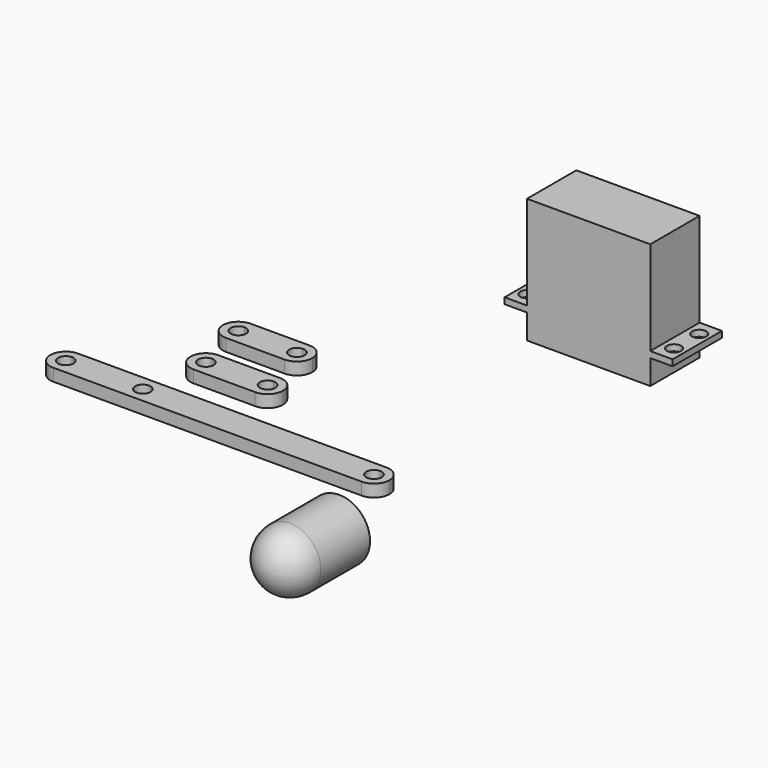
from build123d import *

# Parameters (mm, degrees)
F0_R      = 10
F1_DEPTH  = 30
F2_R      = 10
F4_D      = 6
F4_DEPTH  = 10
F4_TIP    = 1.8025818571
F7_W      = 40
F7_H      = 20
F8_DEPTH  = 40.5
F10_W     = 20
F10_H     = 2
F11_DEPTH = 27.25
F12_R     = 3
F13_DEPTH = 10
F14_R     = 2.3
F15_DEPTH = 3
F17_DEPTH = 4
F18_R     = 2.5
F19_DEPTH = 4
F21_DEPTH = 4


with BuildPart() as f1:
    # F0 (on Front) → F1 (new body)
    with BuildSketch(Plane.XZ):
        Circle(F0_R)
    extrude(amount=F1_DEPTH)

    # F2
    f2_edges = [f1.edges().sort_by_distance(p)[0] for p in [
        (-10, -30, 0),
    ]]
    fillet(f2_edges, radius=F2_R)

    # F4
    with Locations(Plane(origin=(0, 0, 0), x_dir=(-1, 0, 0), z_dir=(0, 1, 0))):
        with Locations((-4.5, 0), (4.5, 0)):
            Hole(F4_D / 2, depth=F4_DEPTH)
            with Locations((0, 0, -(F4_DEPTH + F4_TIP / 2))):  # 118° drill point
                Cone(0, F4_D / 2, F4_TIP, mode=Mode.SUBTRACT)


with BuildPart() as f8:
    # F7 (on Top) → F8 (new body)
    with BuildSketch(Plane.XY):
        with Locations((-7.7292732894, 120.8272636564)):
            Rectangle(F7_W, F7_H)
    extrude(amount=F8_DEPTH)

    # F10 (on offset) → F11 (join, symmetric)
    with BuildSketch(Plane(origin=(-7.7292732894, 0, 0), x_dir=(0, -1, 0), z_dir=(-1, 0, 0))):
        with Locations((-120.8272636564, 9)):
            Rectangle(F10_W, F10_H)
    extrude(amount=F11_DEPTH, both=True)

    # F12 (on face) → F13 (cut)
    with BuildSketch(Plane(origin=(0, 0, 0), x_dir=(1, 0, 0), z_dir=(0, 0, -1))):
        with Locations((2.5707267106, -120.8272636564)):
            Circle(F12_R)
    extrude(amount=-F13_DEPTH, mode=Mode.SUBTRACT)

    # F14 (on face) → F15 (cut)
    with BuildSketch(Plane(origin=(0, 0, 8), x_dir=(1, 0, 0), z_dir=(0, 0, -1))):
        with Locations((16.0707267106, -115.7272636564)):
            Circle(F14_R)
        with Locations((16.0707267106, -125.9303896535)):
            Circle(F14_R)
        with Locations((-31.5292732894, -125.9303896535)):
            Circle(F14_R)
        with Locations((-31.5292732894, -115.7272636564)):
            Circle(F14_R)
    extrude(amount=-F15_DEPTH, mode=Mode.SUBTRACT)


with BuildPart() as f17:
    # F16 (on Top) → F17 (new body)
    with BuildSketch(Plane.XY):
        with BuildLine():
            ThreePointArc((-79.0027027001, 39.6855981151), (-75.4671687942, 41.1500642091), (-74.0027027001, 44.6855981151))
            ThreePointArc((-74.0027027001, 44.6855981151), (-75.4671687942, 48.221132021), (-79.0027027001, 49.6855981151))
            Line((-79.0027027001, 49.6855981151), (-79.0027027001, 47.1855981151))
            ThreePointArc((-79.0027027001, 47.1855981151), (-77.2349357472, 46.453365068), (-76.5027027001, 44.6855981151))
            ThreePointArc((-76.5027027001, 44.6855981151), (-77.2349357472, 42.9178311621), (-79.0027027001, 42.1855981151))
            Line((-79.0027027001, 42.1855981151), (-79.0027027001, 39.6855981151))
        make_face()
        with BuildLine():
            ThreePointArc((-79.0027027001, 49.6855981151), (-75.4671687942, 48.221132021), (-74.0027027001, 44.6855981151))
            ThreePointArc((-74.0027027001, 44.6855981151), (-75.4671687942, 41.1500642091), (-79.0027027001, 39.6855981151))
            Line((-79.0027027001, 39.6855981151), (-59.0027027001, 39.6855981151))
            ThreePointArc((-59.0027027001, 39.6855981151), (-64.0027027001, 44.6855981151), (-59.0027027001, 49.6855981151))
            Line((-59.0027027001, 49.6855981151), (-79.0027027001, 49.6855981151))
        make_face()
        with BuildLine():
            Line((-79.0027027001, 47.1855981151), (-79.0027027001, 49.6855981151))
            ThreePointArc((-79.0027027001, 49.6855981151), (-84.0027027001, 44.6855981151), (-79.0027027001, 39.6855981151))
            Line((-79.0027027001, 39.6855981151), (-79.0027027001, 42.1855981151))
            ThreePointArc((-79.0027027001, 42.1855981151), (-81.5027027001, 44.6855981151), (-79.0027027001, 47.1855981151))
        make_face()
        with BuildLine():
            ThreePointArc((-54.0027027001, 44.6855981151), (-55.4671687942, 48.221132021), (-59.0027027001, 49.6855981151))
            Line((-59.0027027001, 49.6855981151), (-59.0027027001, 47.1855981151))
            ThreePointArc((-59.0027027001, 47.1855981151), (-57.2349357472, 46.453365068), (-56.5027027001, 44.6855981151))
            ThreePointArc((-56.5027027001, 44.6855981151), (-57.2349357472, 42.9178311621), (-59.0027027001, 42.1855981151))
            Line((-59.0027027001, 42.1855981151), (-59.0027027001, 39.6855981151))
            ThreePointArc((-59.0027027001, 39.6855981151), (-55.4671687942, 41.1500642091), (-54.0027027001, 44.6855981151))
        make_face()
        with BuildLine():
            Line((-59.0027027001, 47.1855981151), (-59.0027027001, 49.6855981151))
            ThreePointArc((-59.0027027001, 49.6855981151), (-64.0027027001, 44.6855981151), (-59.0027027001, 39.6855981151))
            Line((-59.0027027001, 39.6855981151), (-59.0027027001, 42.1855981151))
            ThreePointArc((-59.0027027001, 42.1855981151), (-61.5027027001, 44.6855981151), (-59.0027027001, 47.1855981151))
        make_face()
    extrude(amount=F17_DEPTH)


with BuildPart() as f19:
    # F18 (on Top) → F19 (new body)
    with BuildSketch(Plane.XY):
        with BuildLine():
            ThreePointArc((-107.2795514017, 18.1973667862), (-103.7440174958, 19.6618328803), (-102.2795514017, 23.1973667862))
            ThreePointArc((-102.2795514017, 23.1973667862), (-103.7440174958, 26.7329006921), (-107.2795514017, 28.1973667862))
            Line((-107.2795514017, 28.1973667862), (-107.2795514017, 25.6973667862))
            ThreePointArc((-107.2795514017, 25.6973667862), (-105.5117844488, 24.9651337392), (-104.7795514017, 23.1973667862))
            ThreePointArc((-104.7795514017, 23.1973667862), (-105.5117844488, 21.4295998332), (-107.2795514017, 20.6973667862))
            Line((-107.2795514017, 20.6973667862), (-107.2795514017, 18.1973667862))
        make_face()
        with BuildLine():
            ThreePointArc((-107.2795514017, 28.1973667862), (-103.7440174958, 26.7329006921), (-102.2795514017, 23.1973667862))
            ThreePointArc((-102.2795514017, 23.1973667862), (-103.7440174958, 19.6618328803), (-107.2795514017, 18.1973667862))
            Line((-107.2795514017, 18.1973667862), (-7.2795514017, 18.1973667862))
            ThreePointArc((-7.2795514017, 18.1973667862), (-12.2795514017, 23.1973667862), (-7.2795514017, 28.1973667862))
            Line((-7.2795514017, 28.1973667862), (-107.2795514017, 28.1973667862))
        make_face()
        with Locations((-82.2795514017, 23.1973667862)):
            Circle(F18_R, mode=Mode.SUBTRACT)
        with BuildLine():
            Line((-107.2795514017, 25.6973667862), (-107.2795514017, 28.1973667862))
            ThreePointArc((-107.2795514017, 28.1973667862), (-112.2795514017, 23.1973667862), (-107.2795514017, 18.1973667862))
            Line((-107.2795514017, 18.1973667862), (-107.2795514017, 20.6973667862))
            ThreePointArc((-107.2795514017, 20.6973667862), (-109.7795514017, 23.1973667862), (-107.2795514017, 25.6973667862))
        make_face()
        with BuildLine():
            ThreePointArc((-2.2795514017, 23.1973667862), (-3.7440174958, 26.7329006921), (-7.2795514017, 28.1973667862))
            Line((-7.2795514017, 28.1973667862), (-7.2795514017, 25.6973667862))
            ThreePointArc((-7.2795514017, 25.6973667862), (-5.5117844488, 24.9651337392), (-4.7795514017, 23.1973667862))
            ThreePointArc((-4.7795514017, 23.1973667862), (-5.5117844488, 21.4295998332), (-7.2795514017, 20.6973667862))
            Line((-7.2795514017, 20.6973667862), (-7.2795514017, 18.1973667862))
            ThreePointArc((-7.2795514017, 18.1973667862), (-3.7440174958, 19.6618328803), (-2.2795514017, 23.1973667862))
        make_face()
        with BuildLine():
            Line((-7.2795514017, 25.6973667862), (-7.2795514017, 28.1973667862))
            ThreePointArc((-7.2795514017, 28.1973667862), (-12.2795514017, 23.1973667862), (-7.2795514017, 18.1973667862))
            Line((-7.2795514017, 18.1973667862), (-7.2795514017, 20.6973667862))
            ThreePointArc((-7.2795514017, 20.6973667862), (-9.7795514017, 23.1973667862), (-7.2795514017, 25.6973667862))
        make_face()
    extrude(amount=F19_DEPTH)


with BuildPart() as f21:
    # F20 (on Top) → F21 (new body)
    with BuildSketch(Plane.XY):
        with BuildLine():
            ThreePointArc((-83.3691260087, 58.3031725883), (-79.8335921028, 59.7676386824), (-78.3691260087, 63.3031725883))
            ThreePointArc((-78.3691260087, 63.3031725883), (-79.8335921028, 66.8387064943), (-83.3691260087, 68.3031725883))
            Line((-83.3691260087, 68.3031725883), (-83.3691260087, 65.8031725883))
            ThreePointArc((-83.3691260087, 65.8031725883), (-81.6013590558, 65.0709395413), (-80.8691260087, 63.3031725883))
            ThreePointArc((-80.8691260087, 63.3031725883), (-81.6013590558, 61.5354056354), (-83.3691260087, 60.8031725883))
            Line((-83.3691260087, 60.8031725883), (-83.3691260087, 58.3031725883))
        make_face()
        with BuildLine():
            ThreePointArc((-83.3691260087, 68.3031725883), (-79.8335921028, 66.8387064943), (-78.3691260087, 63.3031725883))
            ThreePointArc((-78.3691260087, 63.3031725883), (-79.8335921028, 59.7676386824), (-83.3691260087, 58.3031725883))
            Line((-83.3691260087, 58.3031725883), (-64.3691260087, 58.3031725883))
            ThreePointArc((-64.3691260087, 58.3031725883), (-69.3691260087, 63.3031725883), (-64.3691260087, 68.3031725883))
            Line((-64.3691260087, 68.3031725883), (-83.3691260087, 68.3031725883))
        make_face()
        with BuildLine():
            Line((-83.3691260087, 65.8031725883), (-83.3691260087, 68.3031725883))
            ThreePointArc((-83.3691260087, 68.3031725883), (-88.3691260087, 63.3031725883), (-83.3691260087, 58.3031725883))
            Line((-83.3691260087, 58.3031725883), (-83.3691260087, 60.8031725883))
            ThreePointArc((-83.3691260087, 60.8031725883), (-85.8691260087, 63.3031725883), (-83.3691260087, 65.8031725883))
        make_face()
        with BuildLine():
            Line((-64.3691260087, 65.8031725883), (-64.3691260087, 68.3031725883))
            ThreePointArc((-64.3691260087, 68.3031725883), (-69.3691260087, 63.3031725883), (-64.3691260087, 58.3031725883))
            Line((-64.3691260087, 58.3031725883), (-64.3691260087, 60.8031725883))
            ThreePointArc((-64.3691260087, 60.8031725883), (-66.8691260087, 63.3031725883), (-64.3691260087, 65.8031725883))
        make_face()
        with BuildLine():
            ThreePointArc((-59.3691260087, 63.3031725883), (-60.8335921028, 66.8387064943), (-64.3691260087, 68.3031725883))
            Line((-64.3691260087, 68.3031725883), (-64.3691260087, 65.8031725883))
            ThreePointArc((-64.3691260087, 65.8031725883), (-62.6013590558, 65.0709395413), (-61.8691260087, 63.3031725883))
            ThreePointArc((-61.8691260087, 63.3031725883), (-62.6013590558, 61.5354056354), (-64.3691260087, 60.8031725883))
            Line((-64.3691260087, 60.8031725883), (-64.3691260087, 58.3031725883))
            ThreePointArc((-64.3691260087, 58.3031725883), (-60.8335921028, 59.7676386824), (-59.3691260087, 63.3031725883))
        make_face()
    extrude(amount=F21_DEPTH)


solid = Compound([f1.part, f8.part, f17.part, f19.part, f21.part])
